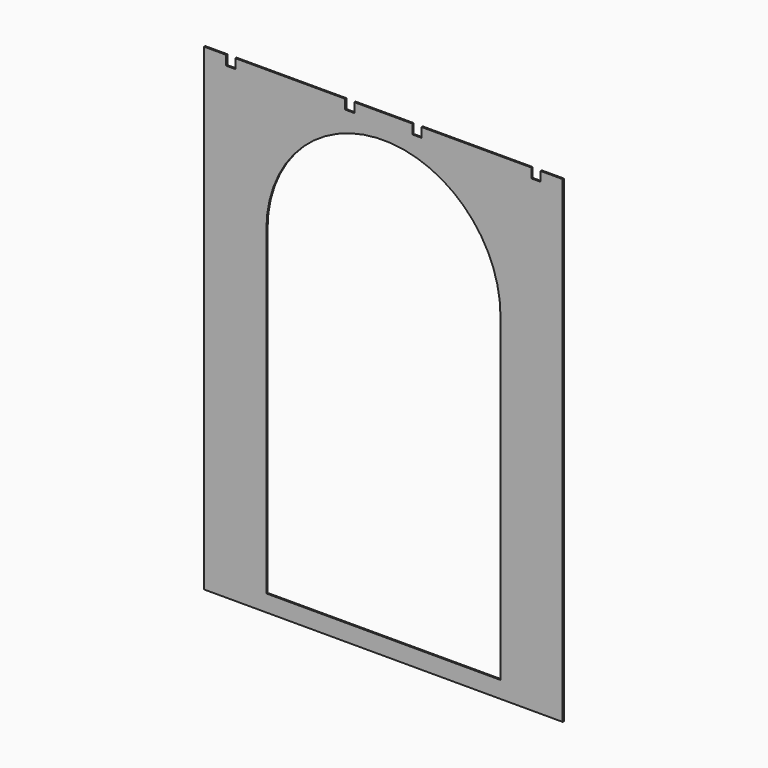
from build123d import *

# Parameters (mm, degrees)
F1_DEPTH = 3


with BuildPart() as f1:
    # F0 (on Front) → F1 (new body)
    with BuildSketch(Plane.XZ):
        Polygon((0, 1000), (0, 0), (750, 0), (750, 1000), (704, 1000), (704, 980), (685, 980), (685, 1000), (455, 1000), (455, 980), (436, 980), (436, 1000), (314, 1000), (314, 980), (295, 980), (295, 1000), (65, 1000), (65, 980), (46, 980), (46, 1000), align=None)
        with BuildLine():
            Line((620, 35), (130, 35))
            Line((130, 35), (130, 705))
            ThreePointArc((130, 705), (375, 950), (620, 705))
            Line((620, 705), (620, 35))
        make_face(mode=Mode.SUBTRACT)
    extrude(amount=F1_DEPTH)


solid = f1.part
